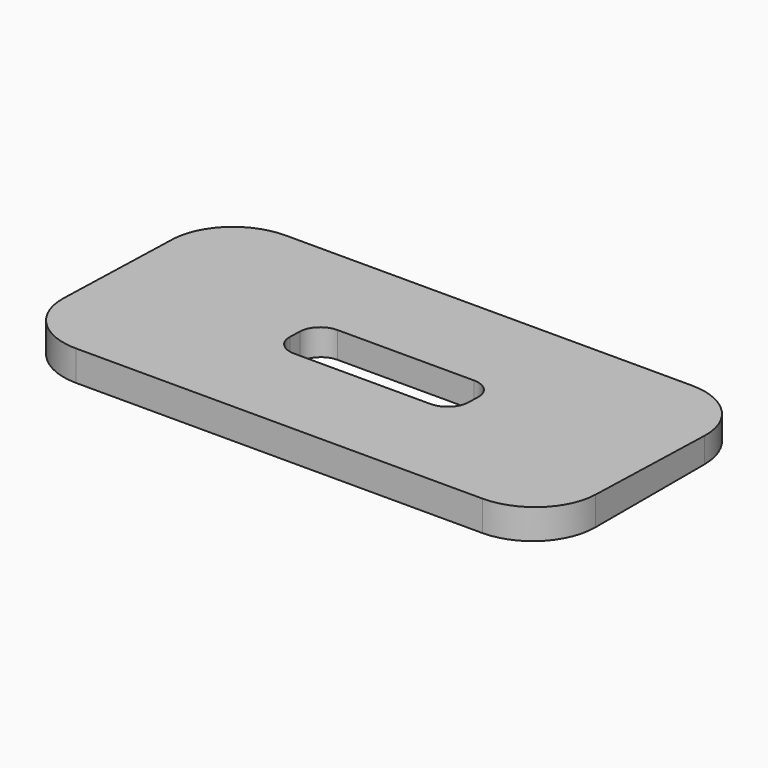
from build123d import *

# Parameters (mm, degrees)
PAD027_DEPTH    = 25.4
SKETCH051_W     = 2.6
SKETCH051_H     = 8.5
POCKET024_DEPTH = 2
FILLET022_R     = 3
FILLET023_R     = 1


with BuildPart() as part:
    # Sketch050 → Pad027 (new body)
    with BuildSketch(Plane.YZ):
        Polygon((0, 0), (-12.5, 0), (-12.5, 1.45), (0, 1.125), align=None)
    extrude(amount=PAD027_DEPTH)

    # Sketch051 (on Face1 of Pad027) → Pocket024 (cut)
    with BuildSketch(Plane.YX):
        with Locations((-6.25, 12.7)):
            Rectangle(SKETCH051_W, SKETCH051_H)
    extrude(amount=-POCKET024_DEPTH, mode=Mode.SUBTRACT)

    # Fillet022
    fillet022_edges = [part.edges().sort_by_distance(p)[0] for p in [
        (25.4, 0, 0.5625),
        (0, 0, 0.5625),
        (25.4, -12.5, 0.725),
        (0, -12.5, 0.725),
    ]]
    fillet(fillet022_edges, radius=FILLET022_R)

    # Fillet023
    fillet023_edges = [part.edges().sort_by_distance(p)[0] for p in [
        (16.95, -7.55, 0.66065),
        (8.45, -7.55, 0.66065),
        (8.45, -4.95, 0.62685),
        (16.95, -4.95, 0.62685),
    ]]
    fillet(fillet023_edges, radius=FILLET023_R)


solid = part.part
